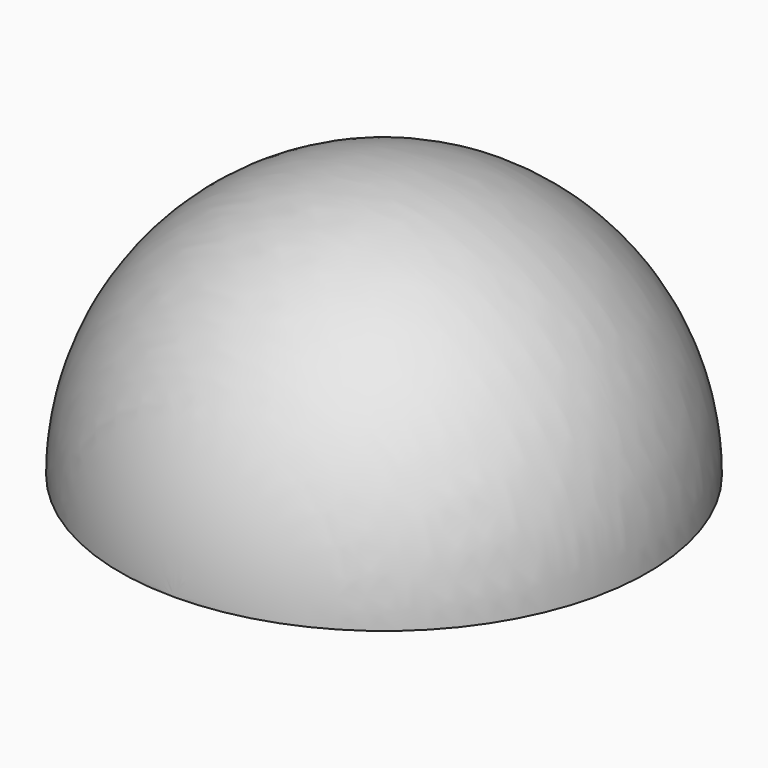
from build123d import *

# Parameters (mm, degrees)
F1_ANGLE = -180


with BuildPart() as f1:
    # F0 (on Top) → F1 (revolve)
    with BuildSketch(Plane.XY):
        with BuildLine():
            Line((13.631863, 13.542492), (13.631863, 25.542475))
            ThreePointArc((13.631863, 25.542475), (7.621699, 19.542484), (13.631863, 13.542492))
        make_face()
    revolve(axis=Axis((13.631863, 19.542484, 0), (0, -1, 0)), revolution_arc=F1_ANGLE)


solid = f1.part
